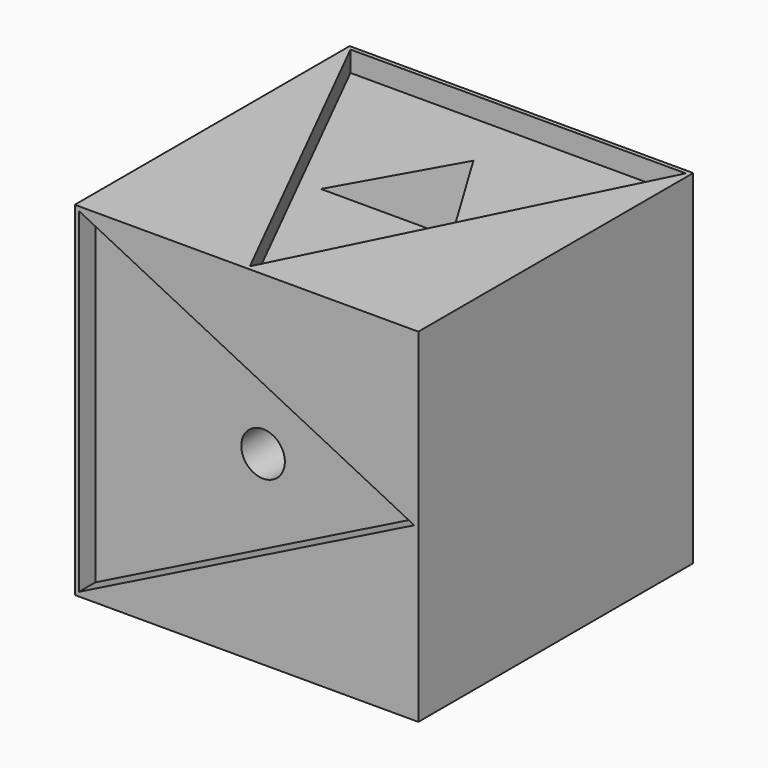
from build123d import *

# Parameters (mm, degrees)
F0_W     = 50
F0_H     = 50
F1_DEPTH = 25
F2_DEPTH = 22
F4_DEPTH = 48
F5_R     = 3.175
F6_DEPTH = 38.77081
F8_DEPTH = 3


with BuildPart() as f1:
    # F0 (on Top) → F1 (new body, symmetric)
    with BuildSketch(Plane.XY):
        with Locations((4.845758, 7.249413)):
            Rectangle(F0_W, F0_H)
        Polygon((4.845758, -17.152166), (-19.555818, 31.650989), (29.247334, 31.650989), align=None, mode=Mode.SUBTRACT)
    extrude(amount=F1_DEPTH, both=True)

    # F0 (on Top) → F2 (join, symmetric)
    with BuildSketch(Plane.XY):
        Polygon((29.247334, 31.650989), (-19.555818, 31.650989), (4.845758, -17.152166), align=None)
    extrude(amount=F2_DEPTH, both=True)

    # F3 (on face) → F4 (cut)
    with BuildSketch(Plane(origin=(0, 0, -22), x_dir=(1, 0, 0), z_dir=(0, 0, -1))):
        Polygon((-4.337861, -7.249412), (4.845758, -23.51713), (14.662139, -7.249412), align=None)
    extrude(amount=-F4_DEPTH, mode=Mode.SUBTRACT)

    # F5 (on face) → F6 (cut)
    with BuildSketch(Plane.XZ.offset(17.750587)):
        with Locations((4.845758, 0)):
            Circle(F5_R)
    extrude(amount=-F6_DEPTH, mode=Mode.SUBTRACT)

    # F7 (on face) → F8 (cut)
    with BuildSketch(Plane.XZ.offset(17.750587)):
        Polygon((29.247338, 0), (-19.555822, 24.40158), (-19.555822, -24.40158), align=None)
    extrude(amount=-F8_DEPTH, mode=Mode.SUBTRACT)


solid = f1.part
